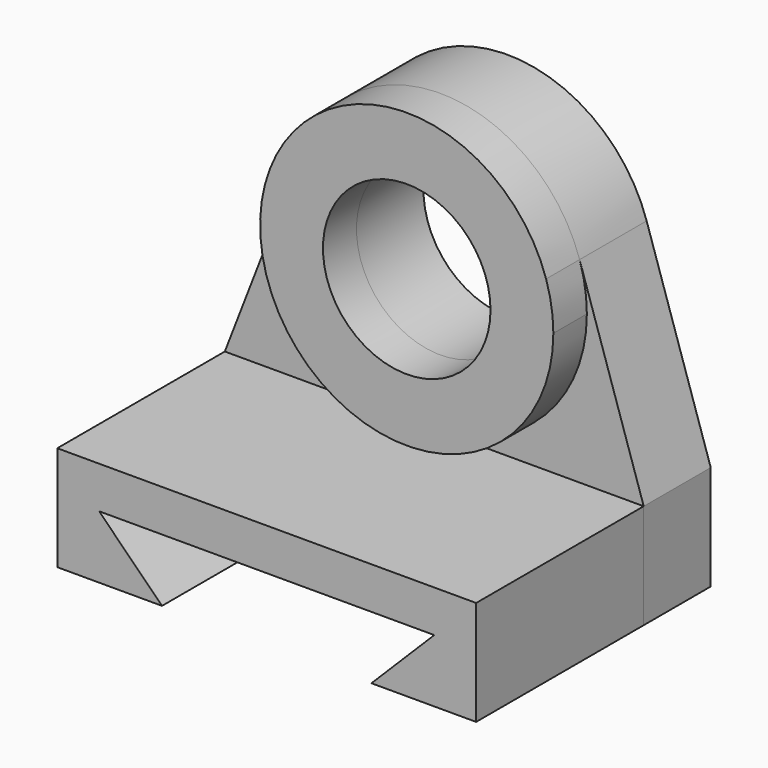
from build123d import *

# Parameters (mm, degrees)
F1_DEPTH = 127
F0_R     = 50.8
F2_DEPTH = 25.4
F3_DEPTH = 50.8


with BuildPart() as f1:
    # F0 (on Front) → F1 (new body)
    with BuildSketch(Plane.XZ):
        Polygon((254, 0), (0, 0), (0, -63.5), (63.5, -63.5), (25.4, -25.4), (63.5, -25.4), (190.5, -25.4), (228.6, -25.4), (190.5, -63.5), (254, -63.5), align=None)
    extrude(amount=F1_DEPTH)


with BuildPart() as f2:
    # F0 (on Front) → F2 (new body)
    with BuildSketch(Plane.XZ):
        with BuildLine():
            ThreePointArc((215.135164, 119.032786), (132.983348, 180.308732), (47.69814, 123.474801))
            ThreePointArc((47.69814, 123.474801), (114.332316, 4.045862), (219.525708, 91.44))
            ThreePointArc((219.525708, 91.44), (218.42121, 105.409956), (215.135164, 119.032786))
        make_face()
        with Locations((130.625708, 91.44)):
            Circle(F0_R, mode=Mode.SUBTRACT)
    extrude(amount=F2_DEPTH)


with BuildPart() as f3:
    # F0 (on Front) → F3 (new body)
    with BuildSketch(Plane.XZ):
        with BuildLine():
            ThreePointArc((215.135164, 119.032786), (132.983348, 180.308732), (47.69814, 123.474801))
            ThreePointArc((47.69814, 123.474801), (114.332316, 4.045862), (219.525708, 91.44))
            ThreePointArc((219.525708, 91.44), (218.42121, 105.409956), (215.135164, 119.032786))
        make_face()
        with Locations((130.625708, 91.44)):
            Circle(F0_R, mode=Mode.SUBTRACT)
        with BuildLine():
            Line((47.69814, 123.474801), (0, 0))
            Line((0, 0), (254, 0))
            Line((254, 0), (215.135164, 119.032786))
            ThreePointArc((215.135164, 119.032786), (218.42121, 105.409956), (219.525708, 91.44))
            ThreePointArc((219.525708, 91.44), (114.332316, 4.045862), (47.69814, 123.474801))
        make_face()
        Polygon((254, 0), (0, 0), (0, -63.5), (63.5, -63.5), (25.4, -25.4), (63.5, -25.4), (190.5, -25.4), (228.6, -25.4), (190.5, -63.5), (254, -63.5), align=None)
    extrude(amount=-F3_DEPTH)


solid = Compound([f1.part, f2.part, f3.part])
